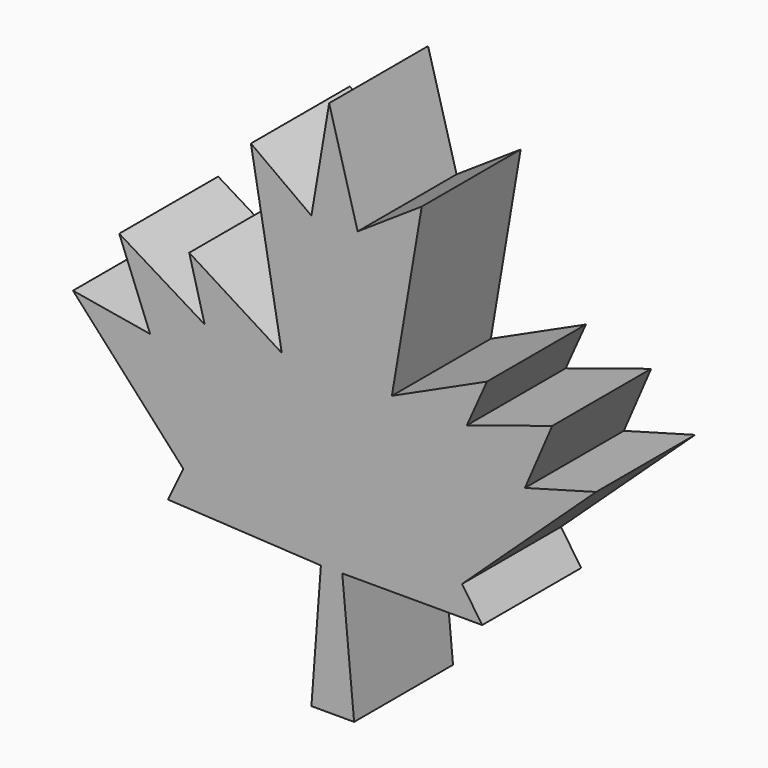
from build123d import *

# Parameters (mm, degrees)
F1_DEPTH = 30


with BuildPart() as f1:
    # F0 (on Front) → F1 (new body)
    with BuildSketch(Plane.XZ):
        Polygon((-35.831816, -22.880558), (-39.573293, -30.651314), (-2.446349, -32.665953), (-4.748795, -63.46117), (5.612213, -63.46117), (2.734156, -32.665953), (36.695234, -32.665953), (31.802535, -25.47081), (64.324588, 4.748795), (47.056243, 0), (53.675771, 15.397607), (32.953762, 8.778076), (37.846457, 19.714694), (14.777758, 9.170779), (22.01714, 51.948939), (6.47563, 41.58793), (-0.445813, 66.726831), (-4.748795, 41.300129), (-19.426888, 51.948939), (-11.943938, 9.641493), (-34.392789, 23.743974), (-30.651312, 9.641493), (-51.373329, 22.304947), (-43.890379, 3.309766), (-62.597752, 6.47563), align=None)
    extrude(amount=F1_DEPTH)


solid = f1.part
